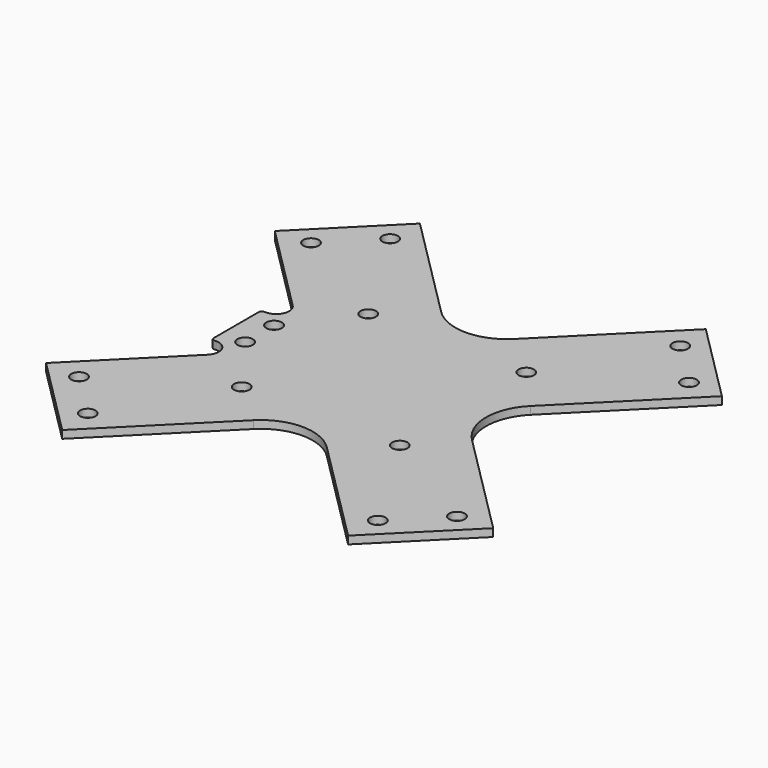
from build123d import *

# Parameters (mm, degrees)
F0_R     = 1.5
F1_DEPTH = 1.5


with BuildPart() as f1:
    # F0 (on Top) → F1 (new body)
    with BuildSketch(Plane.XY):
        with BuildLine():
            Line((-27.577164, 43.133514), (-43.133514, 27.577164))
            Line((-43.133514, 27.577164), (-25.824116, 10.267767))
            ThreePointArc((-25.824116, 10.267767), (-25.282184, 7.543291), (-27.591883, 6))
            Line((-27.591883, 6), (-28, 6))
            ThreePointArc((-28, 6), (-28.353553, 5.853553), (-28.5, 5.5))
            Line((-28.5, 5.5), (-28.5, -5.5))
            ThreePointArc((-28.5, -5.5), (-28.353553, -5.853553), (-28, -6))
            Line((-28, -6), (-27.591883, -6))
            ThreePointArc((-27.591883, -6), (-25.282184, -7.543291), (-25.824116, -10.267767))
            Line((-25.824116, -10.267767), (-43.133514, -27.577164))
            Line((-43.133514, -27.577164), (-27.577164, -43.133514))
            Line((-27.577164, -43.133514), (-7.071068, -22.627417))
            ThreePointArc((-7.071068, -22.627417), (0, -19.698485), (7.071068, -22.627417))
            Line((7.071068, -22.627417), (27.577164, -43.133514))
            Line((27.577164, -43.133514), (43.133514, -27.577164))
            Line((43.133514, -27.577164), (22.627417, -7.071068))
            ThreePointArc((22.627417, -7.071068), (19.698485, 0), (22.627417, 7.071068))
            Line((22.627417, 7.071068), (43.133514, 27.577164))
            Line((43.133514, 27.577164), (27.577164, 43.133514))
            Line((27.577164, 43.133514), (7.071068, 22.627417))
            ThreePointArc((7.071068, 22.627417), (0, 19.698485), (-7.071068, 22.627417))
            Line((-7.071068, 22.627417), (-27.577164, 43.133514))
        make_face()
        with Locations((-27.977922, -36.463203)):
            Circle(F0_R, mode=Mode.SUBTRACT)
        with Locations((-36.463203, -27.977922)):
            Circle(F0_R, mode=Mode.SUBTRACT)
        with Locations((-24, -3.5)):
            Circle(F0_R, mode=Mode.SUBTRACT)
        with Locations((-15.25, -15.25)):
            Circle(F0_R, mode=Mode.SUBTRACT)
        with Locations((27.977922, -36.463203)):
            Circle(F0_R, mode=Mode.SUBTRACT)
        with Locations((36.463203, -27.977922)):
            Circle(F0_R, mode=Mode.SUBTRACT)
        with Locations((15.25, -15.25)):
            Circle(F0_R, mode=Mode.SUBTRACT)
        with Locations((-24, 3.5)):
            Circle(F0_R, mode=Mode.SUBTRACT)
        with Locations((-15.25, 15.25)):
            Circle(F0_R, mode=Mode.SUBTRACT)
        with Locations((-36.463203, 27.977922)):
            Circle(F0_R, mode=Mode.SUBTRACT)
        with Locations((-27.977922, 36.463203)):
            Circle(F0_R, mode=Mode.SUBTRACT)
        with Locations((15.25, 15.25)):
            Circle(F0_R, mode=Mode.SUBTRACT)
        with Locations((36.463203, 27.977922)):
            Circle(F0_R, mode=Mode.SUBTRACT)
        with Locations((27.977922, 36.463203)):
            Circle(F0_R, mode=Mode.SUBTRACT)
    extrude(amount=F1_DEPTH)


solid = f1.part
